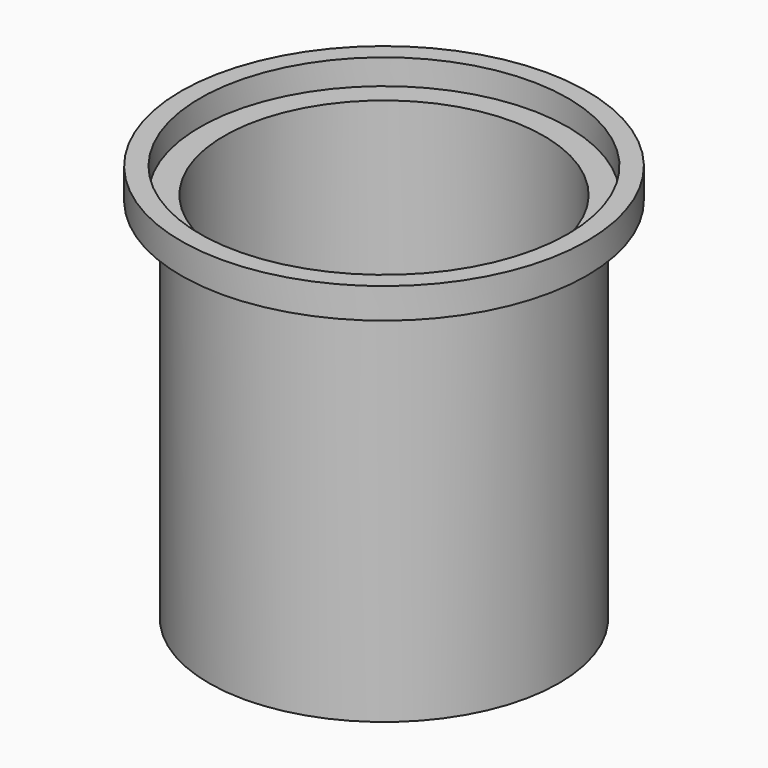
from build123d import *

# Parameters (mm, degrees)
F0_R     = 8.763
F1_DEPTH = 18.415
F3_R     = 10.16
F4_DEPTH = 1.524
F2_R     = 8.001
F5_DEPTH = 27.9654
F6_R     = 9.2075
F7_DEPTH = 1.27


with BuildPart() as f1:
    # F0 (on Top) → F1 (new body)
    with BuildSketch(Plane.XY):
        Circle(F0_R)
    extrude(amount=F1_DEPTH)

    # F3 (on face) → F4 (join)
    with BuildSketch(Plane.XY.offset(18.415)):
        Circle(F3_R)
    extrude(amount=F4_DEPTH)

    # F2 (on face) → F5 (cut, symmetric)
    with BuildSketch(Plane.XY.offset(18.415)):
        Circle(F2_R)
    extrude(amount=F5_DEPTH, both=True, mode=Mode.SUBTRACT)

    # F6 (on face) → F7 (cut)
    with BuildSketch(Plane.XY.offset(19.939)):
        Circle(F6_R)
    extrude(amount=-F7_DEPTH, mode=Mode.SUBTRACT)


solid = f1.part
